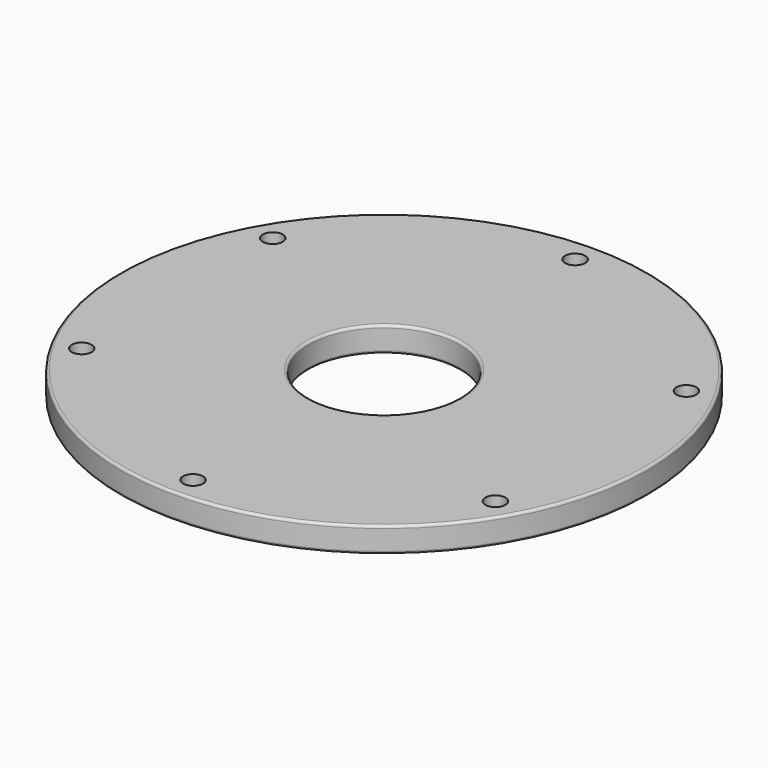
from build123d import *

# Parameters (mm, degrees)
F0_R     = 133.35
F0_R_2   = 38.1
F1_DEPTH = 12.7
F2_R     = 1.27
F4_D     = 10.0838


with BuildPart() as f1:
    # F0 (on Top) → F1 (new body)
    with BuildSketch(Plane.XY):
        Circle(F0_R)
        Circle(F0_R_2, mode=Mode.SUBTRACT)
    extrude(amount=F1_DEPTH)

    # F2
    f2_edges = [f1.edges().sort_by_distance(p)[0] for p in [
        (-38.1, 0, 12.7),
        (-38.1, 0, 0),
        (-133.35, 0, 12.7),
        (-133.35, 0, 0),
    ]]
    fillet(f2_edges, radius=F2_R)

    # F4 (through all)
    with Locations(Plane(origin=(0, 0, 0), x_dir=(1, 0, 0), z_dir=(0, 0, -1))):
        with Locations((0, -120.65), (-104.4859649666, -60.325), (-104.4859649666, 60.325), (0, 120.65), (104.4859649666, 60.325), (104.4859649666, -60.325)):
            Hole(F4_D / 2)


solid = f1.part
